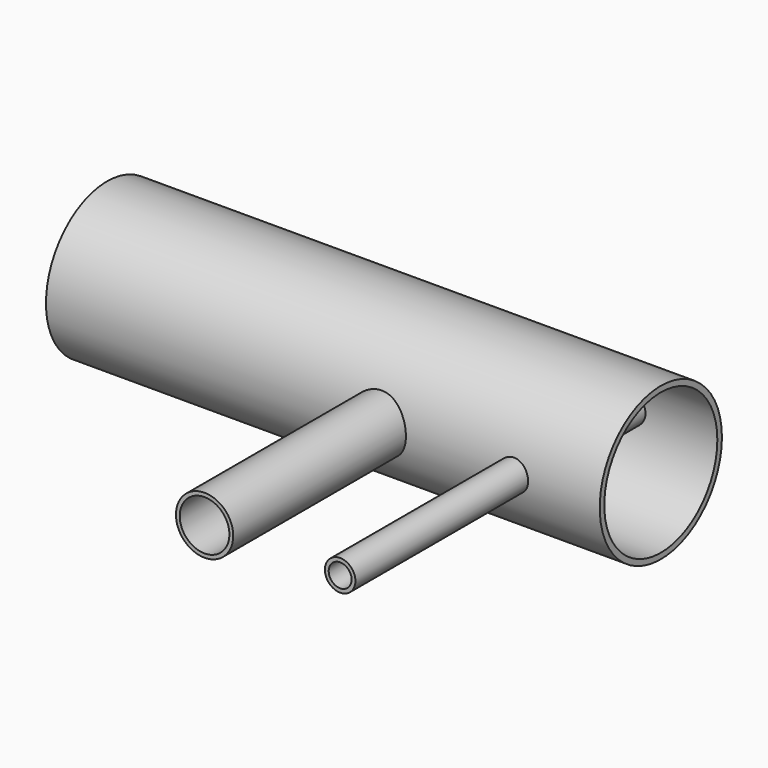
from build123d import *

# Parameters (mm, degrees)
F1_R          = 15
F1_R_2        = 13
F2_DEPTH      = 115
F2_DEPTH_BACK = 85
F1_R_3        = 8
F1_R_4        = 6
F3_DEPTH      = 115
F3_DEPTH_BACK = 85
F5_R          = 40
F5_R_2        = 37
F6_DEPTH      = 130
F6_DEPTH_BACK = 160


with BuildPart() as f2:
    # F1 (on Front) → F2 (new body, two sides)
    with BuildSketch(Plane.XZ) as f2_sk:
        with Locations((13.4657353163, 0)):
            Circle(F1_R)
        with Locations((13.4657353163, 0)):
            Circle(F1_R_2, mode=Mode.SUBTRACT)
    extrude(amount=F2_DEPTH)
    extrude(f2_sk.sketch, amount=-F2_DEPTH_BACK)


with BuildPart() as f3:
    # F1 (on Front) → F3 (new body, two sides)
    with BuildSketch(Plane.XZ) as f3_sk:
        with Locations((84.4657353163, 0)):
            Circle(F1_R_3)
        with Locations((84.4657353163, 0)):
            Circle(F1_R_4, mode=Mode.SUBTRACT)
    extrude(amount=F3_DEPTH)
    extrude(f3_sk.sketch, amount=-F3_DEPTH_BACK)


with BuildPart() as f6:
    # F5 (on Right) → F6 (new body, two sides)
    with BuildSketch(Plane.YZ) as f6_sk:
        with Locations((38, 0)):
            Circle(F5_R)
        with Locations((38, 0)):
            Circle(F5_R_2, mode=Mode.SUBTRACT)
    extrude(amount=F6_DEPTH)
    extrude(f6_sk.sketch, amount=-F6_DEPTH_BACK)


solid = Compound([f2.part, f3.part, f6.part])
